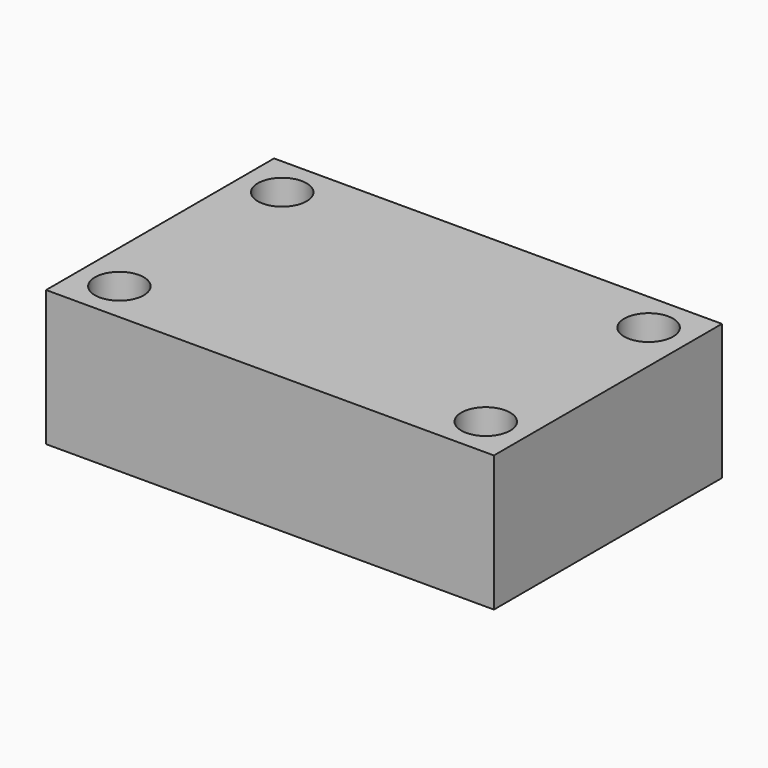
from build123d import *

# Parameters (mm, degrees)
CYLINDER002_R     = 1.8
CYLINDER002_DEPTH = 50
ARRAY002_X_COUNT  = 2
ARRAY002_X_PITCH  = 27
ARRAY002_Y_COUNT  = 2
ARRAY002_Y_PITCH  = 15
BOX003_W          = 33
BOX003_H          = 21
BOX003_DEPTH      = 10


with BuildPart() as array002:
    # Cylinder002 → Cylinder002 (new body)
    with BuildSketch(Plane(origin=(3, 3, -10), x_dir=(1, 0, 0), z_dir=(0, 0, 1))):
        Circle(CYLINDER002_R)
    extrude(amount=CYLINDER002_DEPTH)

    # Array002 X: Array002 ×2


with BuildPart() as array002_1:
    add(array002.part)
    with Locations(*[(i * ARRAY002_X_PITCH, 0, 0) for i in range(1, ARRAY002_X_COUNT)]):
        add(array002.part)

    # Array002 Y: Array002 ×2


with BuildPart() as array002_2:
    add(array002_1.part)
    with Locations(*[(0, i * ARRAY002_Y_PITCH, 0) for i in range(1, ARRAY002_Y_COUNT)]):
        add(array002_1.part)


with BuildPart() as cut002:
    # Box003 → Box003 (new body)
    with BuildSketch(Plane.XY):
        with Locations((16.5, 10.5)):
            Rectangle(BOX003_W, BOX003_H)
    extrude(amount=BOX003_DEPTH)

    # Cut002: cut Array002
    add(array002_2.part, mode=Mode.SUBTRACT)


solid = cut002.part
